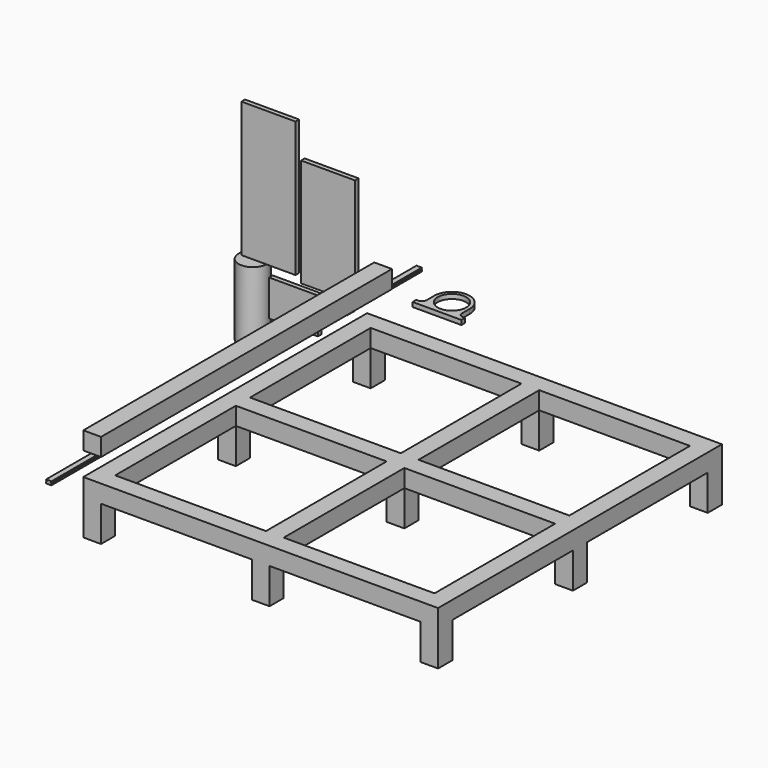
from build123d import *

# Parameters (mm, degrees)
F0_W      = 50
F0_H      = 50
F1_DEPTH  = 1000
F2_W      = 50
F2_H      = 50
F3_DEPTH  = 450
F4_W      = 25
F4_H      = 50
F5_DEPTH  = 900
F7_W      = 50
F7_H      = 50
F8_DEPTH  = 100
F10_DEPTH = 1000
F11_W     = 152.4
F11_H     = 381
F12_DEPTH = 12.7
F14_DEPTH = 30
F15_W     = 50
F15_H     = 50
F16_DEPTH = 1025
F17_W     = 152.4
F17_H     = 304.8
F18_DEPTH = 12.7
F19_DEPTH = 304.8
F20_W     = 137.4
F20_H     = 101.6
F21_DEPTH = 12.7
F22_R     = 40
F23_DEPTH = 12.7
F24_R     = 12.7
F27_R     = 4
F28_DEPTH = 70


with BuildPart() as f1:
    # F0 (on Front) → F1 (new body)
    with BuildSketch(Plane.XZ):
        with Locations((25, 25)):
            Rectangle(F0_W, F0_H)
    extrude(amount=F1_DEPTH)

    # F2 (on face) → F3 (join)
    with BuildSketch(Plane.YZ.offset(50)):
        with Locations((-500, 25)):
            Rectangle(F2_W, F2_H)
        with Locations((-975, 25)):
            Rectangle(F2_W, F2_H)
        with Locations((-25, 25)):
            Rectangle(F2_W, F2_H)
    extrude(amount=F3_DEPTH)

    # F4 (on face) → F5 (join)
    with BuildSketch(Plane(origin=(0, -950, 0), x_dir=(-1, 0, 0), z_dir=(0, 1, 0))):
        with Locations((-487.5, 25)):
            Rectangle(F4_W, F4_H)
    extrude(amount=F5_DEPTH)

    # F6: F1 across face


with BuildPart() as f1_1:
    add(f1.part)
    add(f1.part.mirror(Plane(origin=(500, -500, 25), x_dir=(0, 1, 0), z_dir=(1, 0, 0))))

    # F7 (on face) → F8 (join)
    with BuildSketch(Plane(origin=(0, 0, 0), x_dir=(1, 0, 0), z_dir=(0, 0, -1))):
        with Locations((25, 975)):
            Rectangle(F7_W, F7_H)
        with Locations((975, 975)):
            Rectangle(F7_W, F7_H)
        with Locations((975, 25)):
            Rectangle(F7_W, F7_H)
        with Locations((25, 25)):
            Rectangle(F7_W, F7_H)
        with Locations((25, 500)):
            Rectangle(F7_W, F7_H)
        with Locations((975, 500)):
            Rectangle(F7_W, F7_H)
        with Locations((500, 25)):
            Rectangle(F7_W, F7_H)
        with Locations((500, 500)):
            Rectangle(F7_W, F7_H)
        with Locations((500, 975)):
            Rectangle(F7_W, F7_H)
    extrude(amount=F8_DEPTH)


with BuildPart() as f10:
    # F9 (on Front) → F10 (new body)
    with BuildSketch(Plane.XZ):
        Polygon((-104.807849, 5), (-104.807849, 0), (-89.807849, 0), (-89.807849, 5), (-92.307849, 6.25), (-89.807849, 7.5), (-89.807849, 10), (-104.807849, 10), (-104.807849, 7.5), (-102.307849, 6.25), align=None)
    extrude(amount=F10_DEPTH)


with BuildPart() as f12:
    # F11 (on Front) → F12 (new body)
    with BuildSketch(Plane.XZ):
        with Locations((-268.01108, 277.777746)):
            Rectangle(F11_W, F11_H)
    extrude(amount=F12_DEPTH)


with BuildPart() as f14:
    # F13 (on Front) → F14 (new body)
    with BuildSketch(Plane.XZ):
        Polygon((-34.679969, 46.354181), (-32.179969, 46.354181), (-32.179969, 53.854181), (-52.179969, 53.854181), (-52.179969, 46.354181), (-49.679969, 46.354181), (-47.179969, 47.604181), (-49.679969, 48.854181), (-49.679969, 51.354181), (-34.679969, 51.354181), (-34.679969, 48.854181), (-37.179969, 47.604181), align=None)
    extrude(amount=F14_DEPTH)


with BuildPart() as f16:
    # F15 (on Front) → F16 (new body)
    with BuildSketch(Plane.XZ):
        with Locations((45.07963, 157.491842)):
            Rectangle(F15_W, F15_H)
    extrude(amount=F16_DEPTH)


with BuildPart() as f18:
    # F17 (on Front) → F18 (new body)
    with BuildSketch(Plane.XZ):
        with Locations((-99.968564, 224.33223)):
            Rectangle(F17_W, F17_H)
    extrude(amount=F18_DEPTH)


with BuildPart() as f19:
    # F10_face (on face) → F19 (new body)
    with BuildSketch(Plane(origin=(-97.307849, 0, 4.945652), x_dir=(1, 0, 0), z_dir=(0, 1, 0))):
        Polygon((-7.5, 4.945652), (-7.5, -0.054348), (-5, -1.304348), (-7.5, -2.554348), (-7.5, -5.054348), (7.5, -5.054348), (7.5, -2.554348), (5, -1.304348), (7.5, -0.054348), (7.5, 4.945652), align=None)
    extrude(amount=F19_DEPTH)


with BuildPart() as f21:
    # F20 (on Front) → F21 (new body)
    with BuildSketch(Plane.XZ):
        with Locations((-197.374826, 6.310578)):
            Rectangle(F20_W, F20_H)
    extrude(amount=F21_DEPTH)


with BuildPart() as f23:
    # F22 (on Top) → F23 (new body)
    with BuildSketch(Plane.XY):
        with BuildLine():
            Line((0, 173.023237), (0, 160.323237))
            Line((0, 160.323237), (137.4, 160.323237))
            Line((137.4, 160.323237), (137.4, 173.023237))
            Line((137.4, 173.023237), (118.7, 173.023237))
            Line((118.7, 173.023237), (118.7, 213.023237))
            ThreePointArc((118.7, 213.023237), (104.055339, 248.378576), (68.7, 263.023237))
            ThreePointArc((68.7, 263.023237), (33.344661, 248.378576), (18.7, 213.023237))
            Line((18.7, 213.023237), (18.7, 173.023237))
            Line((18.7, 173.023237), (0, 173.023237))
        make_face()
        with Locations((68.7, 213.023237)):
            Circle(F22_R, mode=Mode.SUBTRACT)
    extrude(amount=F23_DEPTH)

    # F24
    f24_edges = [f23.edges().sort_by_distance(p)[0] for p in [
        (118.7, 173.023237, 6.35),
        (18.7, 173.023237, 6.35),
    ]]
    fillet(f24_edges, radius=F24_R)


with BuildPart() as f26:
    # F25 (on Front) → F26 (revolve)
    with BuildSketch(Plane.XZ):
        Polygon((-337.016799, -149.796396), (-326.016799, -149.796396), (-326.016799, -119.796396), (-322.016799, -119.796396), (-322.016799, 80.203604), (-362.016799, 80.203604), (-362.016799, -119.796396), (-332.016799, -119.796396), (-332.016799, -139.796396), (-337.016799, -139.796396), align=None)
    revolve(axis=Axis((-322.016799, 0, -19.796396), (0, 0, -1)))


with BuildPart() as f28:
    # F27 (on Front) → F28 (new body)
    with BuildSketch(Plane.XZ):
        with Locations((0, 154.57424)):
            Circle(F27_R)
    extrude(amount=F28_DEPTH)


solid = Compound([f1_1.part, f10.part, f12.part, f14.part, f16.part, f18.part, f19.part, f21.part, f23.part, f26.part, f28.part])
